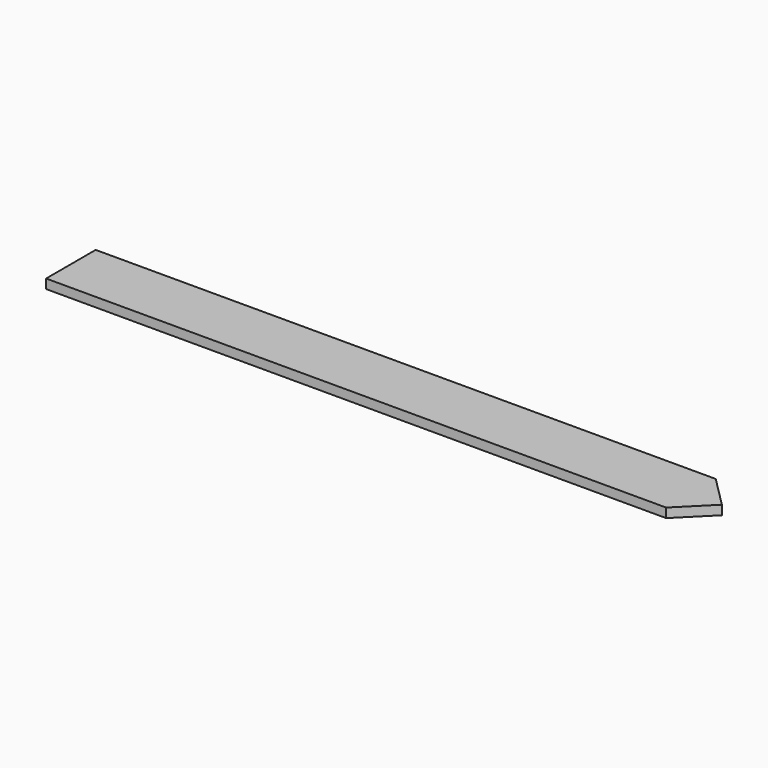
from build123d import *

# Parameters (mm, degrees)
PAD_DEPTH = 3


with BuildPart() as part:
    # Sketch → Pad (new body)
    with BuildSketch(Plane.XY):
        Polygon((-105, -10), (-105, 10), (95, 10), (105, 0), (95, -10), align=None)
    extrude(amount=PAD_DEPTH)


solid = part.part
